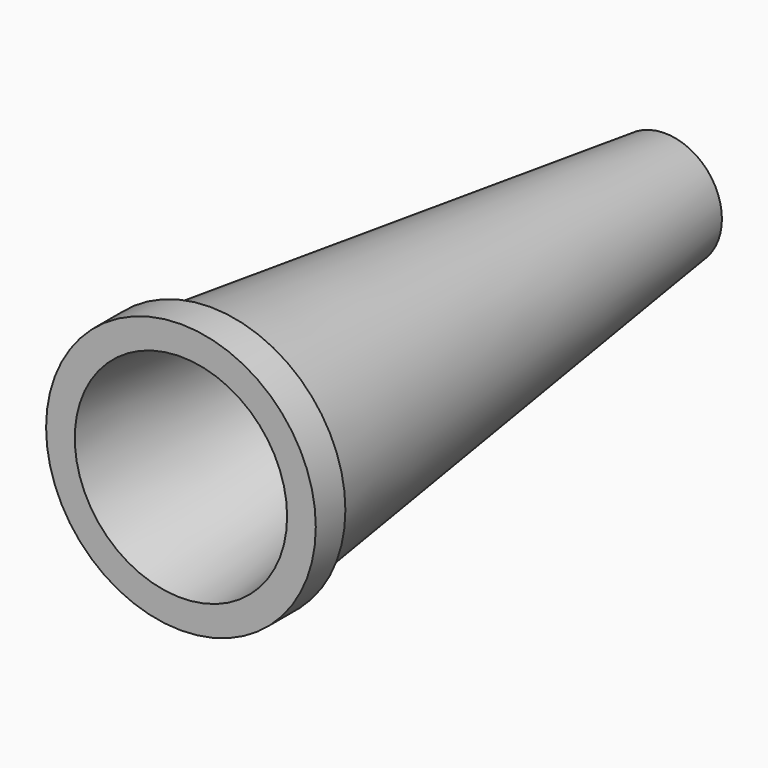
from build123d import *

# Parameters (mm, degrees)
F0_R     = 4.2672
F2_R     = 1.8796
F4_T     = -0.762
F5_R     = 4.445
F5_R_2   = 3.4997563168
F6_DEPTH = 1.2192


with BuildPart() as f3:
    # F0 (on Front) → F3 section 0
    with BuildSketch(Plane.XZ):
        Circle(F0_R)
    # F2 (on offset) → F3 section 1
    with BuildSketch(Plane.XZ.offset(-19.939)):
        Circle(F2_R)
    loft()

    # F4
    f4_openings = [f3.faces().sort_by_distance(p)[0] for p in [
        (0, 0, 0),
        (0, 19.939, 0),
    ]]
    offset(amount=F4_T, openings=f4_openings, kind=Kind.INTERSECTION)

    # F5 (on Front) → F6 (join)
    with BuildSketch(Plane.XZ):
        Circle(F5_R)
        Circle(F5_R_2, mode=Mode.SUBTRACT)
    extrude(amount=-F6_DEPTH)


solid = f3.part
